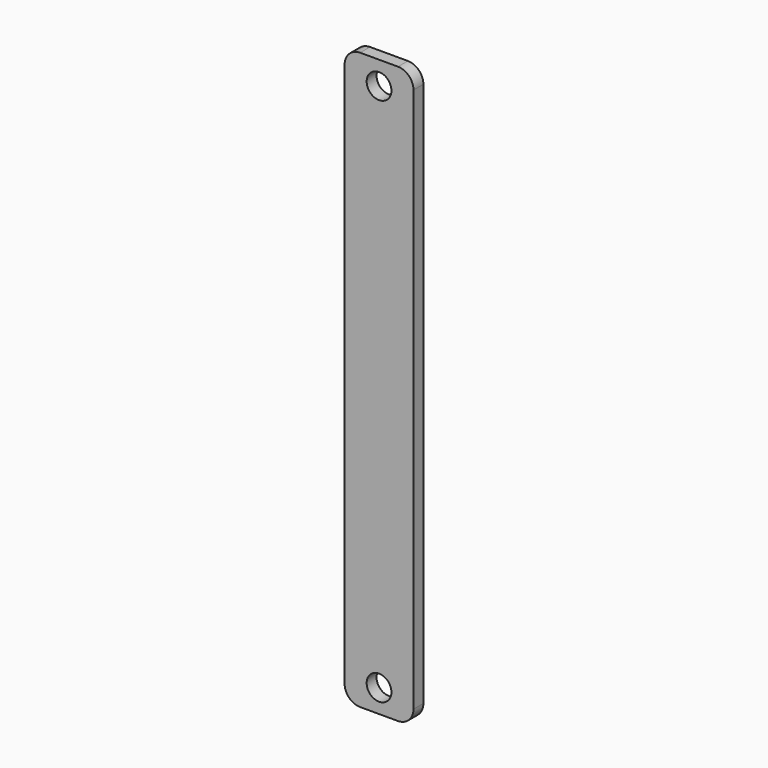
from build123d import *

# Parameters (mm, degrees)
F0_W     = 22.217336
F0_H     = 185.9497
F0_R     = 4
F1_DEPTH = 4
F2_R     = 5


with BuildPart() as f1:
    # F0 (on Front) → F1 (new body)
    with BuildSketch(Plane.XZ):
        with Locations((0, 85.47485)):
            Rectangle(F0_W, F0_H)
        Circle(F0_R, mode=Mode.SUBTRACT)
        with Locations((0, 170.9497)):
            Circle(F0_R, mode=Mode.SUBTRACT)
    extrude(amount=F1_DEPTH)

    # F2
    f2_edges = [f1.edges().sort_by_distance(p)[0] for p in [
        (-11.108668, -2, -7.5),
        (11.108668, -2, -7.5),
        (11.108668, -2, 178.4497),
        (-11.108668, -2, 178.4497),
    ]]
    fillet(f2_edges, radius=F2_R)


solid = f1.part
